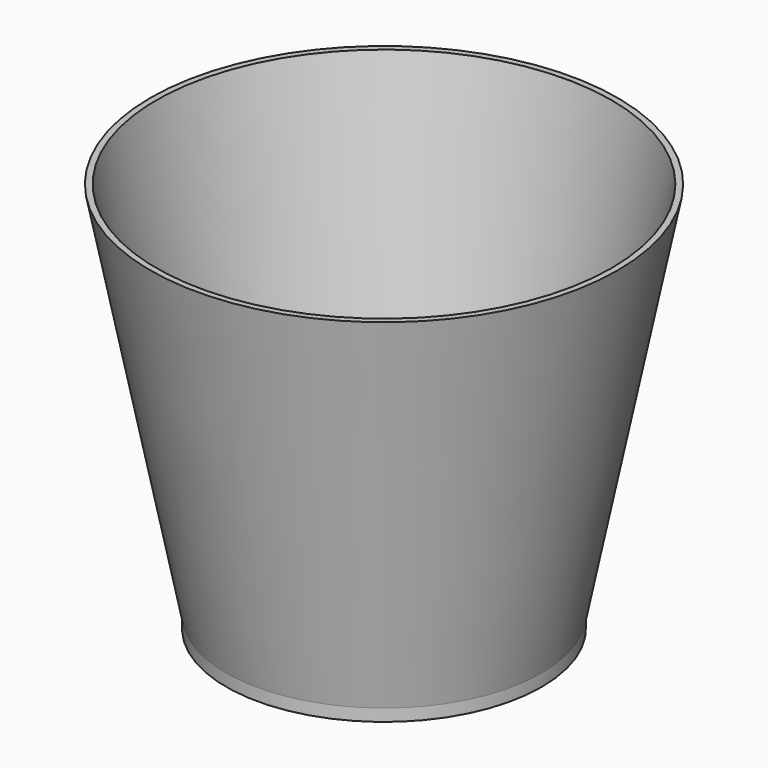
from build123d import *

# Parameters (mm, degrees)
SKETCH_R      = 20.8
EXTRUDE_DEPTH = 1.6


with BuildPart() as cone001:
    # Cone001 → Cone001 (revolve)
    with BuildSketch(Plane.XZ):
        Polygon((0, 0), (20, 0), (30, 50), (0, 50), align=None)
    revolve(axis=Axis((0, 0, 0), (0, 0, 1)))


with BuildPart() as cut:
    # Cone → Cone (revolve)
    with BuildSketch(Plane.XZ):
        Polygon((0, 0), (20.8, 0), (30.8, 50), (0, 50), align=None)
    revolve(axis=Axis((0, 0, 0), (0, 0, 1)))

    # Cut: cut Cone001
    add(cone001.part, mode=Mode.SUBTRACT)


with BuildPart() as fusion:
    # Sketch → Extrude (new body)
    with BuildSketch(Plane.XY):
        Circle(SKETCH_R)
    extrude(amount=-EXTRUDE_DEPTH)

    # Fusion: union Cut
    add(cut.part)


solid = fusion.part
